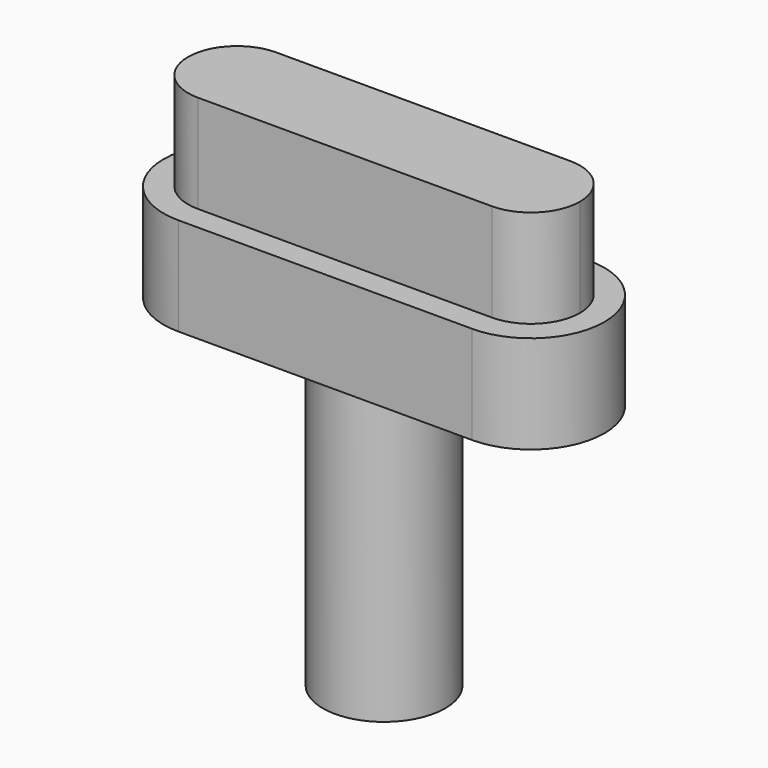
from build123d import *

# Parameters (mm, degrees)
F1_DEPTH = 25.4
F3_DEPTH = 25.4
F4_R     = 15.875
F5_DEPTH = 76.2


with BuildPart() as f1:
    # F0 (on Top) → F1 (new body)
    with BuildSketch(Plane.XY):
        with BuildLine():
            Line((76.2, 19.05), (0, 19.05))
            ThreePointArc((0, 19.05), (-19.05, 0), (0, -19.05))
            Line((0, -19.05), (76.2, -19.05))
            ThreePointArc((76.2, -19.05), (95.25, 0), (76.2, 19.05))
        make_face()
    extrude(amount=F1_DEPTH)

    # F2 (on face) → F3 (join)
    with BuildSketch(Plane.XY.offset(25.4)):
        with BuildLine():
            Line((76.2, 12.7), (0, 12.7))
            ThreePointArc((0, 12.7), (-12.7, 0), (0, -12.7))
            Line((0, -12.7), (76.2, -12.7))
            ThreePointArc((76.2, -12.7), (63.5, 0), (76.2, 12.7))
        make_face()
        with BuildLine():
            ThreePointArc((88.9, 0), (85.180256, 8.980256), (76.2, 12.7))
            ThreePointArc((76.2, 12.7), (63.5, 0), (76.2, -12.7))
            ThreePointArc((76.2, -12.7), (85.180256, -8.980256), (88.9, 0))
        make_face()
    extrude(amount=F3_DEPTH)

    # F4 (on face) → F5 (join)
    with BuildSketch(Plane(origin=(0, 0, 0), x_dir=(1, 0, 0), z_dir=(0, 0, -1))):
        with Locations((38.1, 0)):
            Circle(F4_R)
    extrude(amount=F5_DEPTH)


solid = f1.part
